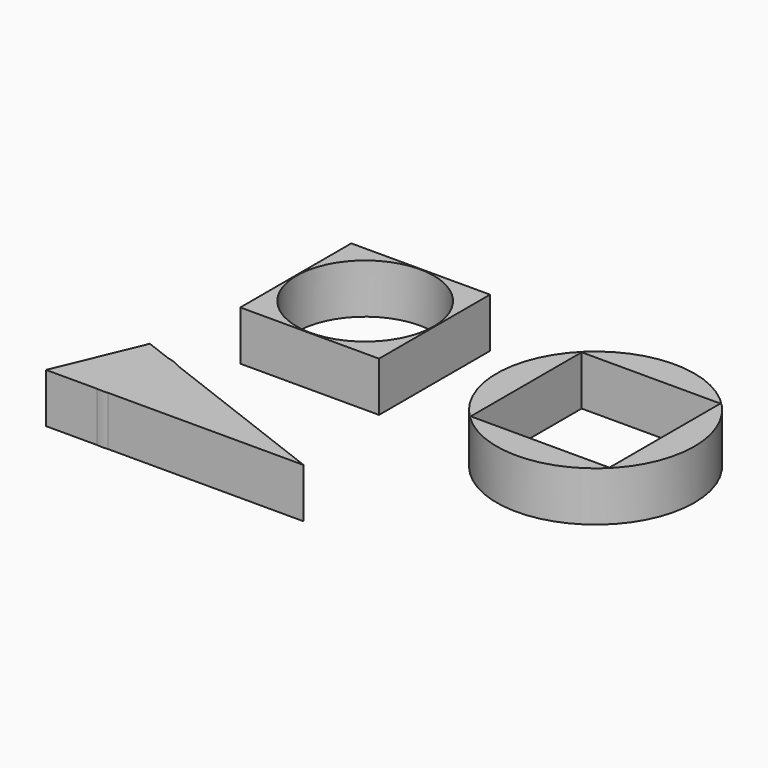
from build123d import *

# Parameters (mm, degrees)
F0_W     = 70
F0_H     = 70
F0_R     = 34.6406955074
F1_DEPTH = 25
F0_R_2   = 49.8837049023


with BuildPart() as f1:
    # F0 (on Top) → F1 (new body)
    with BuildSketch(Plane.XY):
        with Locations((-31.2223267555, 31.7068226919)):
            Rectangle(F0_W, F0_H)
        with Locations((-31.2223267555, 31.7068226919)):
            Circle(F0_R, mode=Mode.SUBTRACT)
    extrude(amount=F1_DEPTH)


with BuildPart() as f1b:
    # F0 (on Top) → F1, piece 2 (new body)
    with BuildSketch(Plane.XY):
        with Locations((97.7249628305, 15.8321800083)):
            Circle(F0_R_2)
        with Locations((97.7249628305, 15.8321800083)):
            Rectangle(F0_W, F0_H, mode=Mode.SUBTRACT)
    extrude(amount=F1_DEPTH)


with BuildPart() as f1c:
    # F0 (on Top) → F1, piece 3 (new body)
    with BuildSketch(Plane.XY):
        with BuildLine():
            Line((-61.3269406594, -92.743806541), (-59.4139359891, -92.743806541))
            Line((-59.4139359891, -92.743806541), (37.3297232389, -92.743806541))
            Line((37.3297232389, -92.743806541), (-53.8359624566, -57.7485785731))
            ThreePointArc((-53.8359624566, -57.7485785731), (-47.3627732226, -64.6687190479), (-45.0121854903, -73.8483301704))
            ThreePointArc((-45.0121854903, -73.8483301704), (-49.6552278172, -86.3304199744), (-61.3269406594, -92.743806541))
        make_face()
        with BuildLine():
            ThreePointArc((-66.896609962, -92.743806541), (-64.1117753107, -92.9479199908), (-61.3269406594, -92.743806541))
            Line((-61.3269406594, -92.743806541), (-66.896609962, -92.743806541))
        make_face()
        with BuildLine():
            Line((-66.896609962, -92.743806541), (-61.3269406594, -92.743806541))
            ThreePointArc((-61.3269406594, -92.743806541), (-49.6552278172, -86.3304199744), (-45.0121854903, -73.8483301704))
            ThreePointArc((-45.0121854903, -73.8483301704), (-47.3627732226, -64.6687190479), (-53.8359624566, -57.7485785731))
            Line((-53.8359624566, -57.7485785731), (-60.9753559123, -55.0080221935))
            ThreePointArc((-60.9753559123, -55.0080221935), (-72.8448389452, -56.8622202313), (-81.259281641, -65.4365908759))
            Line((-81.259281641, -65.4365908759), (-82.1459824964, -67.5585207544))
            ThreePointArc((-82.1459824964, -67.5585207544), (-80.4498529452, -83.7408298805), (-66.896609962, -92.743806541))
        make_face()
        with BuildLine():
            Line((-60.9753559123, -55.0080221935), (-53.8359624566, -57.7485785731))
            ThreePointArc((-53.8359624566, -57.7485785731), (-57.2670944696, -56.01732696), (-60.9753559123, -55.0080221935))
        make_face()
        with BuildLine():
            Line((-92.6702767611, -92.743806541), (-66.896609962, -92.743806541))
            ThreePointArc((-66.896609962, -92.743806541), (-80.4498529452, -83.7408298805), (-82.1459824964, -67.5585207544))
            Line((-82.1459824964, -67.5585207544), (-92.6702767611, -92.743806541))
        make_face()
        with BuildLine():
            ThreePointArc((-81.259281641, -65.4365908759), (-72.8448389452, -56.8622202313), (-60.9753559123, -55.0080221935))
            Line((-60.9753559123, -55.0080221935), (-74.6999279407, -49.7396525955))
            Line((-74.6999279407, -49.7396525955), (-81.259281641, -65.4365908759))
        make_face()
        with BuildLine():
            ThreePointArc((-81.259281641, -65.4365908759), (-81.7345982424, -66.4841979592), (-82.1459824964, -67.5585207544))
            Line((-82.1459824964, -67.5585207544), (-81.259281641, -65.4365908759))
        make_face()
    extrude(amount=F1_DEPTH)


solid = Compound([f1.part, f1b.part, f1c.part])
